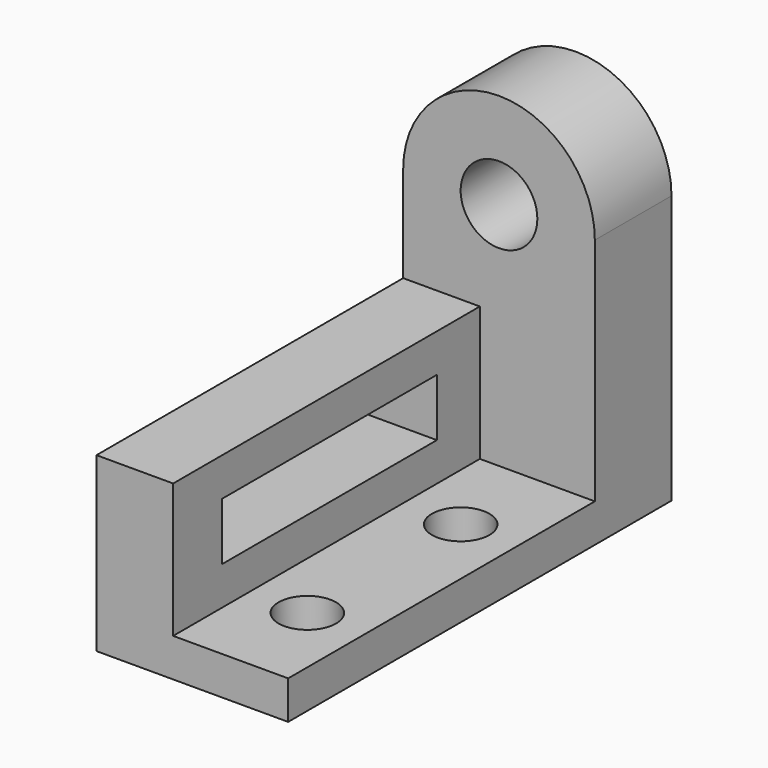
from build123d import *

# Parameters (mm, degrees)
F0_W     = 2540
F0_H     = 254
F1_DEPTH = 1270
F3_DEPTH = 635
F5_D     = 508
F6_W     = 508
F6_H     = 2540
F7_DEPTH = 889
F8_W     = 1778
F8_H     = 381
F9_DEPTH = 1565.87305
F11_D    = 381


with BuildPart() as f1:
    # F0 (on Right) → F1 (new body)
    with BuildSketch(Plane.YZ):
        with Locations((214.329084, -117.442988)):
            Rectangle(F0_W, F0_H)
    extrude(amount=F1_DEPTH)

    # F2 (on face) → F3 (join)
    with BuildSketch(Plane(origin=(0, 1484.329084, 0), x_dir=(-1, 0, 0), z_dir=(0, 1, 0))):
        with BuildLine():
            Line((0, 9.557012), (0, 1533.557012))
            ThreePointArc((0, 1533.557012), (-635, 2168.557012), (-1270, 1533.557012))
            Line((-1270, 1533.557012), (-1270, 9.557012))
            Line((-1270, 9.557012), (-1270, -244.442988))
            Line((-1270, -244.442988), (0, -244.442988))
            Line((0, -244.442988), (0, 9.557012))
        make_face()
    extrude(amount=F3_DEPTH)

    # F5 (through all)
    with Locations(Plane(origin=(0, 2119.329084, 0), x_dir=(-1, 0, 0), z_dir=(0, 1, 0))):
        with Locations((-635, 1533.557012)):
            Hole(F5_D / 2)

    # F6 (on face) → F7 (join)
    with BuildSketch(Plane.XY.offset(9.557012)):
        with Locations((254, 214.329084)):
            Rectangle(F6_W, F6_H)
    extrude(amount=F7_DEPTH)

    # F8 (on face) → F9 (cut)
    with BuildSketch(Plane.YZ.offset(508)):
        with Locations((239.729084, 454.057012)):
            Rectangle(F8_W, F8_H)
    extrude(amount=-F9_DEPTH, mode=Mode.SUBTRACT)

    # F11 (through all)
    with Locations(Plane.XY.offset(9.557012)):
        with Locations((889, -420.670916), (889, 849.329084)):
            Hole(F11_D / 2)


solid = f1.part
